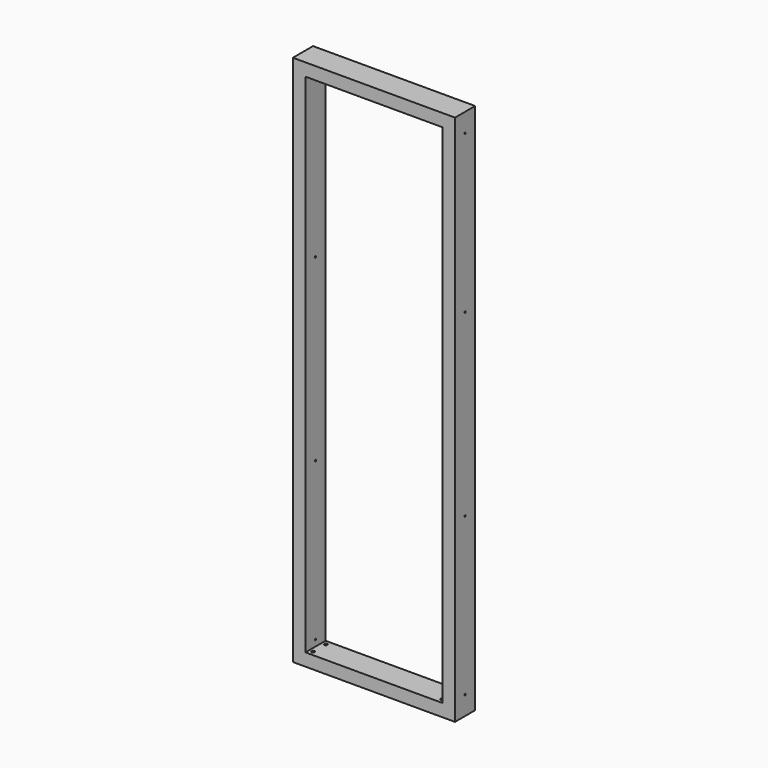
from build123d import *

# Parameters (mm, degrees)
F0_W     = 515
F0_H     = 1690
F0_W_2   = 435
F0_H_2   = 1610
F1_DEPTH = 80
F2_R     = 5
F3_DEPTH = 100
F4_R     = 2.5
F5_DEPTH = 1000


with BuildPart() as f1:
    # F0 (on Front) → F1 (new body)
    with BuildSketch(Plane.XZ):
        Rectangle(F0_W, F0_H)
        Rectangle(F0_W_2, F0_H_2, mode=Mode.SUBTRACT)
    extrude(amount=F1_DEPTH)

    # F2 (on face) → F3 (cut)
    with BuildSketch(Plane(origin=(0, 0, -845), x_dir=(1, 0, 0), z_dir=(0, 0, -1))):
        with Locations((-205, 65)):
            Circle(F2_R)
        with Locations((-205, 15)):
            Circle(F2_R)
        with Locations((205, 65)):
            Circle(F2_R)
        with Locations((205, 15)):
            Circle(F2_R)
    extrude(amount=-F3_DEPTH, mode=Mode.SUBTRACT)

    # F4 (on Right) → F5 (cut, symmetric)
    with BuildSketch(Plane.YZ):
        with Locations((-40, 285)):
            Circle(F4_R)
        with Locations((-40, 785)):
            Circle(F4_R)
        with Locations((-40, -285)):
            Circle(F4_R)
        with Locations((-40, -785)):
            Circle(F4_R)
    extrude(amount=F5_DEPTH, both=True, mode=Mode.SUBTRACT)


solid = f1.part
